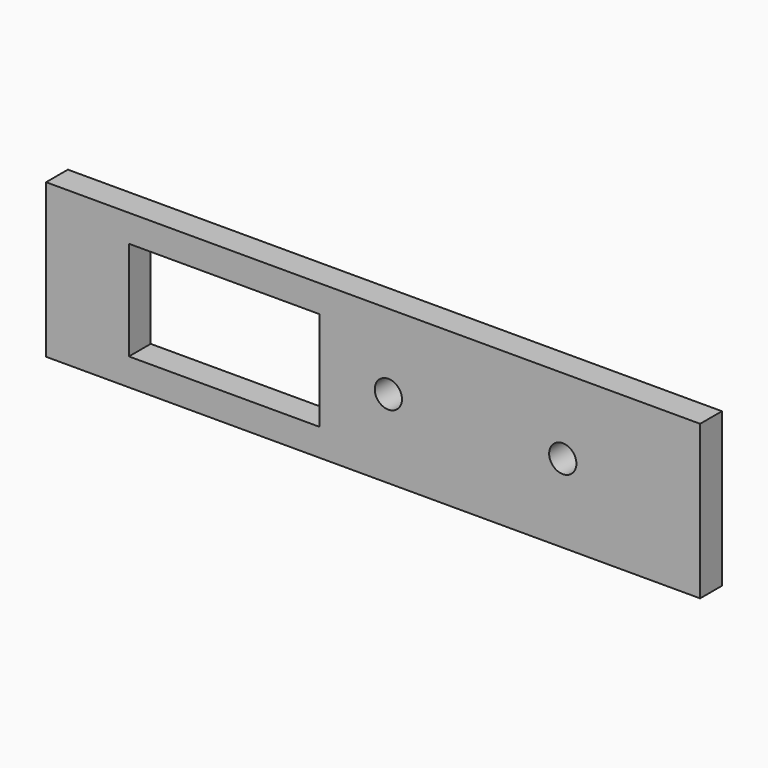
from build123d import *

# Parameters (mm, degrees)
F0_W     = 22.225
F0_H     = 11.557864
F0_R     = 1.5875
F1_DEPTH = 3.175


with BuildPart() as f1:
    # F0 (on Front) → F1 (new body)
    with BuildSketch(Plane.XZ):
        Polygon((38.1, 1.547896), (-38.1, 1.547896), (-38.1, -1.627104), (-38.1, -13.184968), (-38.1, -16.359968), (38.1, -16.359968), (38.1, -13.184968), (38.1, -1.627104), align=None)
        with Locations((-17.3355, -7.406036)):
            Rectangle(F0_W, F0_H, mode=Mode.SUBTRACT)
        with Locations((1.778, -7.231843)):
            Circle(F0_R, mode=Mode.SUBTRACT)
        with Locations((22.098, -7.231843)):
            Circle(F0_R, mode=Mode.SUBTRACT)
    extrude(amount=F1_DEPTH)


solid = f1.part
